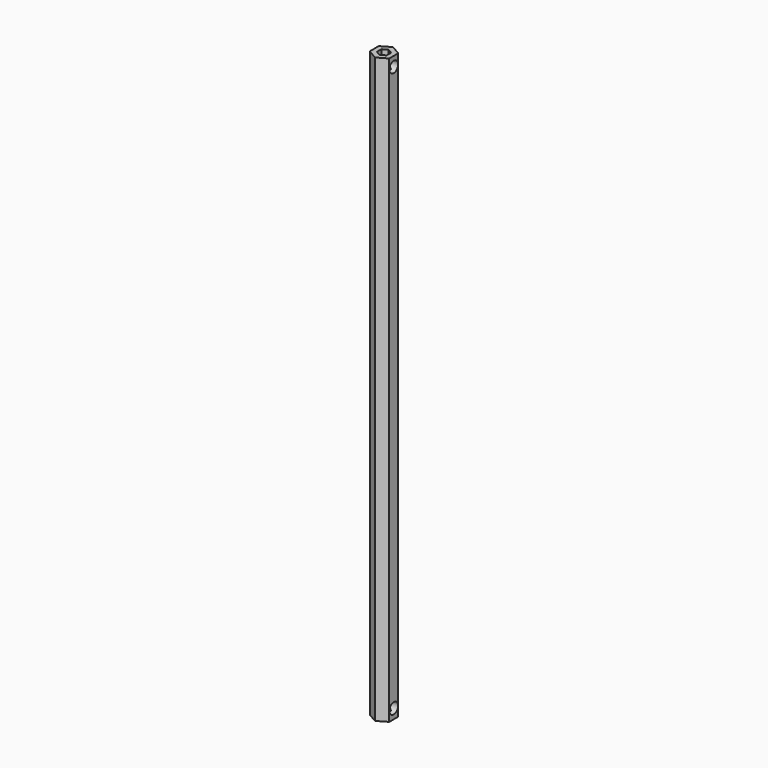
from build123d import *

# Parameters (mm, degrees)
F1_DEPTH = 381
F3_D     = 7.1374
F5_D     = 3.7973
F5_DEPTH = 9.53516
F5_TIP   = 1.1408240143


with BuildPart() as f1:
    # F0 (on Top) → F1 (new body)
    with BuildSketch(Plane.XY):
        Polygon((6.35, 3.6661742094), (0, 7.3323484187), (-6.35, 3.6661742094), (-6.35, -3.6661742094), (0, -7.3323484187), (6.35, -3.6661742094), align=None)
        Polygon((0, 3.6661742094), (3.175, 1.8330871047), (3.175, -1.8330871047), (0, -3.6661742094), (-3.175, -1.8330871047), (-3.175, 1.8330871047), align=None, mode=Mode.SUBTRACT)
    extrude(amount=F1_DEPTH)

    # F3 (through all)
    with Locations(Plane.YZ.offset(6.35)):
        with Locations((0, 374.65), (0, 6.35)):
            Hole(F3_D / 2)

    # F5
    with Locations(Plane(origin=(-6.35, 0, 0), x_dir=(0, -1, 0), z_dir=(-1, 0, 0))):
        with Locations((0, 279.4)):
            Hole(F5_D / 2, depth=F5_DEPTH)
            with Locations((0, 0, -(F5_DEPTH + F5_TIP / 2))):  # 118° drill point
                Cone(0, F5_D / 2, F5_TIP, mode=Mode.SUBTRACT)


solid = f1.part
